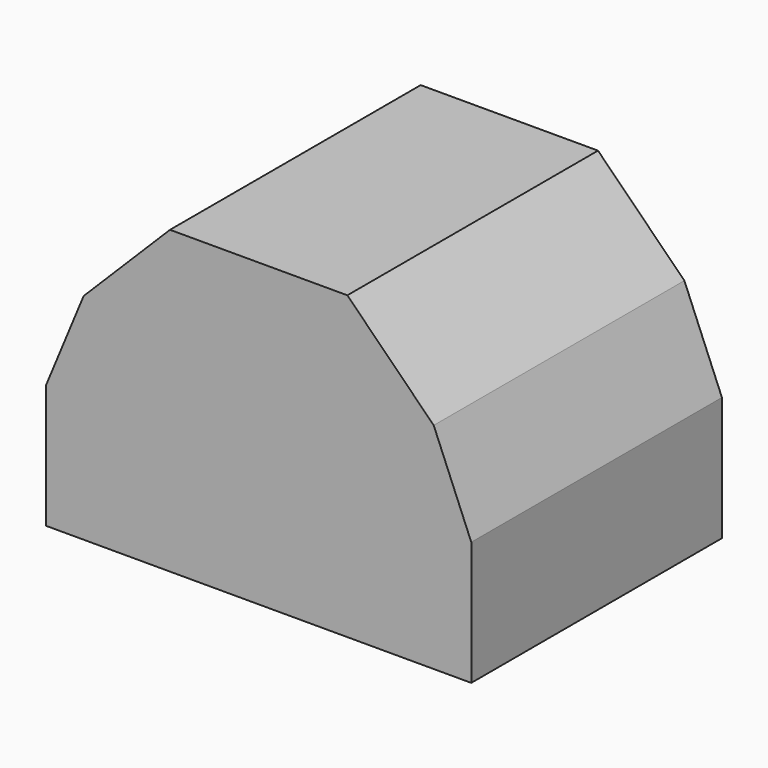
from build123d import *

# Parameters (mm, degrees)
F0_W     = 152.5266170502
F0_H     = 112.4007552862
F1_DEPTH = 107.95
F2_SIZE  = 44.45
F3_SIZE  = 44.45
F4_SIZE  = 19.05
F5_SIZE  = 19.05
F6_T     = -6.35


with BuildPart() as f1:
    # F0 (on Top) → F1 (new body)
    with BuildSketch(Plane.XY):
        Rectangle(F0_W, F0_H)
    extrude(amount=F1_DEPTH)

    # F2
    f2_edges = [f1.edges().sort_by_distance(p)[0] for p in [
        (-76.263309, 0, 107.95),
    ]]
    chamfer(f2_edges, length=F2_SIZE)

    # F3
    f3_edges = [f1.edges().sort_by_distance(p)[0] for p in [
        (76.263309, 0, 107.95),
    ]]
    chamfer(f3_edges, length=F3_SIZE)

    # F4
    f4_edges = [f1.edges().sort_by_distance(p)[0] for p in [
        (-76.263309, 0, 63.5),
    ]]
    chamfer(f4_edges, length=F4_SIZE)

    # F5
    f5_edges = [f1.edges().sort_by_distance(p)[0] for p in [
        (76.263309, 0, 63.5),
    ]]
    chamfer(f5_edges, length=F5_SIZE)

    # F6
    f6_openings = [f1.faces().sort_by_distance(p)[0] for p in [
        (0, 0, 0),
    ]]
    offset(amount=F6_T, openings=f6_openings)


solid = f1.part
